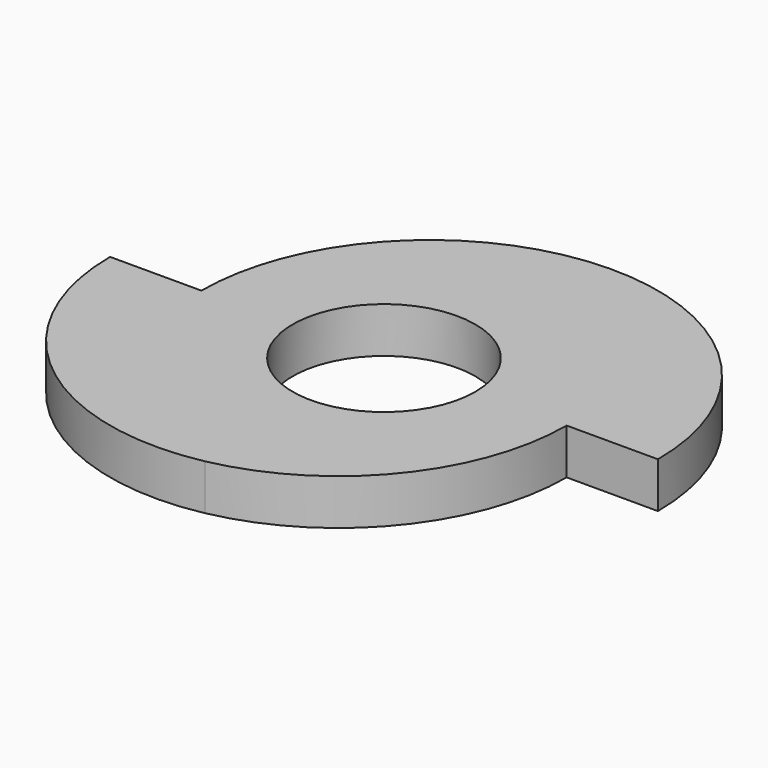
from build123d import *

# Parameters (mm, degrees)
F0_R     = 12.7
F1_DEPTH = 6.35


with BuildPart() as f1:
    # F0 (on Top) → F1 (new body)
    with BuildSketch(Plane.XY):
        with BuildLine():
            Line((-25.4, 0), (-38.1, 0))
            ThreePointArc((-38.1, 0), (-26.430463, -24.593444), (0, -31.10852))
            ThreePointArc((0, -31.10852), (-18.243444, -20.080463), (-25.4, 0))
        make_face()
        with BuildLine():
            ThreePointArc((25.4, 0), (18.243444, 20.080463), (0, 31.10852))
            ThreePointArc((0, 31.10852), (-18.243444, 20.080463), (-25.4, 0))
            ThreePointArc((-25.4, 0), (-18.243444, -20.080463), (0, -31.10852))
            ThreePointArc((0, -31.10852), (18.243444, -20.080463), (25.4, 0))
        make_face()
        Circle(F0_R, mode=Mode.SUBTRACT)
        with BuildLine():
            Line((25.4, 0), (38.1, 0))
            ThreePointArc((38.1, 0), (26.430463, 24.593444), (0, 31.10852))
            ThreePointArc((0, 31.10852), (18.243444, 20.080463), (25.4, 0))
        make_face()
    extrude(amount=F1_DEPTH)


solid = f1.part
